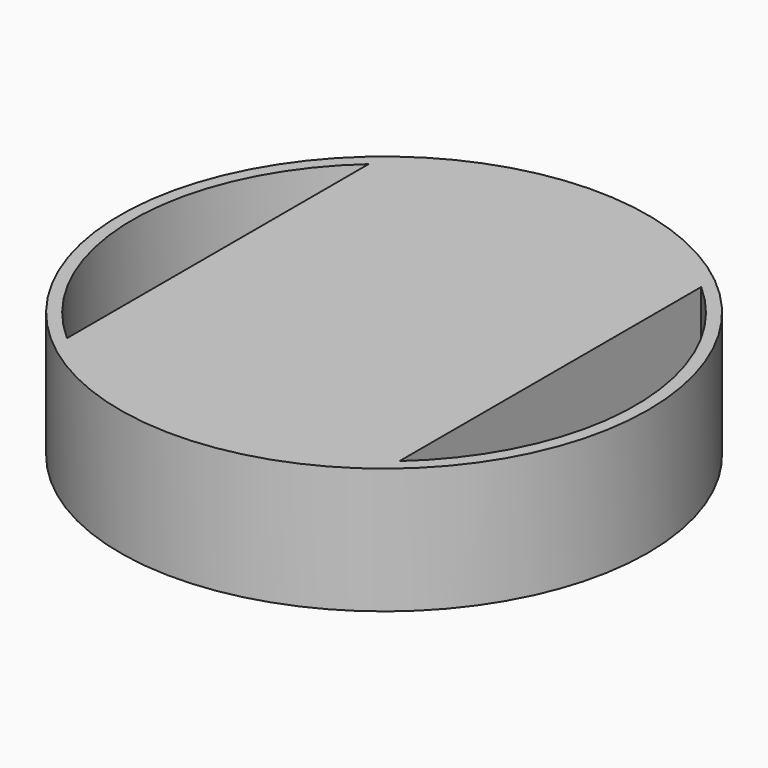
from build123d import *

# Parameters (mm, degrees)
F0_R      = 105
F0_R_2    = 100
F1_DEPTH  = 50
F3_W      = 132.2875655532
F3_H      = 50
F4_FACE_W = 132.2875655532
F4_FACE_H = 50


with BuildPart() as f1:
    # F0 (on Top) → F1 (new body)
    with BuildSketch(Plane.XY):
        Circle(F0_R)
        Circle(F0_R_2, mode=Mode.SUBTRACT)
    extrude(amount=F1_DEPTH)

    # F3 (on offset) → F4 (join, up to the next surface of F1)
    with BuildSketch(Plane.XZ.offset(75)):
        with Locations((0, 25)):
            Rectangle(F3_W, F3_H)
    extrude(until=Until.NEXT)

    # F4_face (on face) → F5 (join, up to the next surface of F1)
    with BuildSketch(Plane(origin=(0, -75, 25), x_dir=(1, 0, 0), z_dir=(0, 1, 0))):
        Rectangle(F4_FACE_W, F4_FACE_H)
    extrude(until=Until.NEXT)


solid = f1.part
